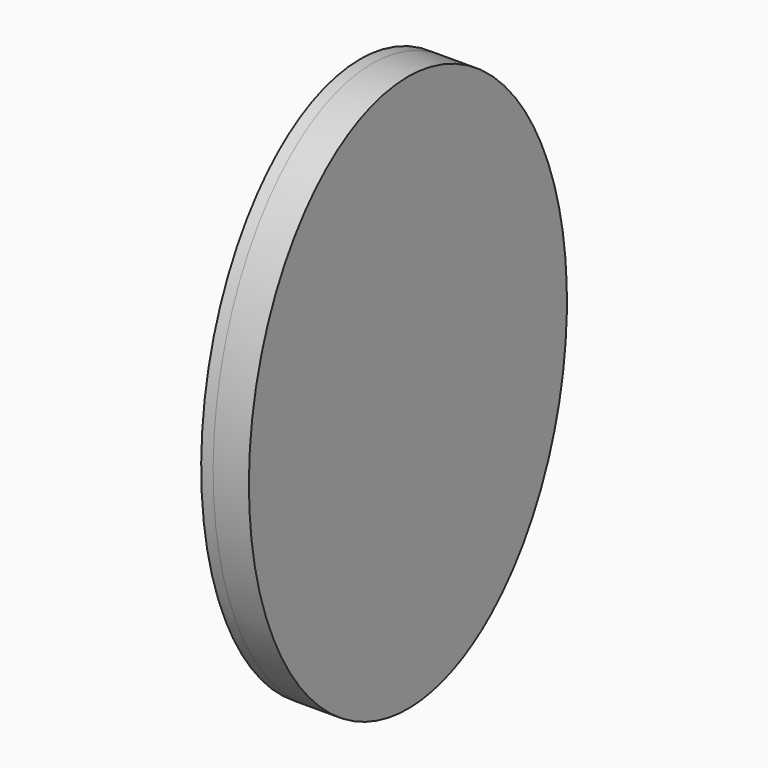
from build123d import *

# Parameters (mm, degrees)
F1_DEPTH = 3
F2_DEPTH = 9


with BuildPart() as f1:
    # F0 (on Right) → F1 (new body)
    with BuildSketch(Plane.YZ):
        with BuildLine():
            add(Edge.make_bspline(
                [(0, 70), (-86.60254, 70), (-43.30127, -35), (0, -140), (43.30127, -35), (86.60254, 70), (0, 70)],
                knots=[0, 0, 0, 2.094395, 2.094395, 4.18879, 4.18879, 6.283185, 6.283185, 6.283185], degree=2, weights=[1, 0.5, 1, 0.5, 1, 0.5, 1]))
        make_face()
    extrude(amount=F1_DEPTH)

    # F1_face (on face) → F2 (join)
    with BuildSketch(Plane(origin=(3, 0, -0.169786), x_dir=(0, 1, 0), z_dir=(1, 0, 0))):
        with BuildLine():
            add(Edge.make_bspline(
                [(0, 70.169786), (-86.60254, 70.169786), (-43.30127, -34.830214), (0, -139.830214), (43.30127, -34.830214), (86.60254, 70.169786), (0, 70.169786)],
                knots=[0, 0, 0, 2.094395, 2.094395, 4.18879, 4.18879, 6.283185, 6.283185, 6.283185], degree=2, weights=[1, 0.5, 1, 0.5, 1, 0.5, 1]))
        make_face()
    extrude(amount=F2_DEPTH)


solid = f1.part
